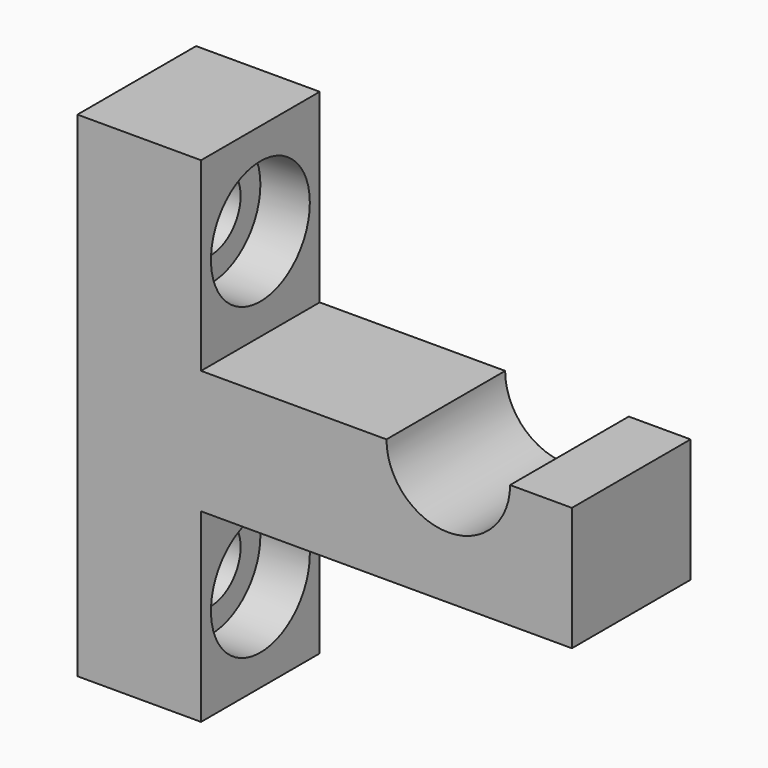
from build123d import *

# Parameters (mm, degrees)
F0_W     = 10
F0_H     = 15
F0_H_2   = 10
F1_DEPTH = 12
F2_R     = 3
F3_DEPTH = 10.001
F4_R     = 5
F4_R_2   = 3
F5_DEPTH = 4
F6_R     = 5
F6_R_2   = 3
F7_DEPTH = 4


with BuildPart() as f1:
    # F0 (on Front) → F1 (new body)
    with BuildSketch(Plane.XZ):
        with Locations((-15, 12.5)):
            Rectangle(F0_W, F0_H)
        with Locations((-15, 0)):
            Rectangle(F0_W, F0_H_2)
        with Locations((-15, -12.5)):
            Rectangle(F0_W, F0_H)
        with BuildLine():
            Line((-10, -5), (20, -5))
            Line((20, -5), (20, 5))
            Line((20, 5), (15, 5))
            ThreePointArc((15, 5), (10, 0), (5, 5))
            Line((5, 5), (-10, 5))
            Line((-10, 5), (-10, -5))
        make_face()
    extrude(amount=F1_DEPTH)

    # F2 (on face) → F3 (cut, through all)
    with BuildSketch(Plane.YZ.offset(-10)):
        with Locations((-6, 12.5)):
            Circle(F2_R)
        with Locations((-6, -12.5)):
            Circle(F2_R)
    extrude(amount=-F3_DEPTH, mode=Mode.SUBTRACT)

    # F4 (on face) → F5 (cut)
    with BuildSketch(Plane.YZ.offset(-10)):
        with Locations((-6, 12.5)):
            Circle(F4_R)
        with Locations((-6, 12.5)):
            Circle(F4_R_2, mode=Mode.SUBTRACT)
    extrude(amount=-F5_DEPTH, mode=Mode.SUBTRACT)

    # F6 (on face) → F7 (cut)
    with BuildSketch(Plane.YZ.offset(-10)):
        with Locations((-6, -12.5)):
            Circle(F6_R)
        with Locations((-6, -12.5)):
            Circle(F6_R_2, mode=Mode.SUBTRACT)
    extrude(amount=-F7_DEPTH, mode=Mode.SUBTRACT)


solid = f1.part
